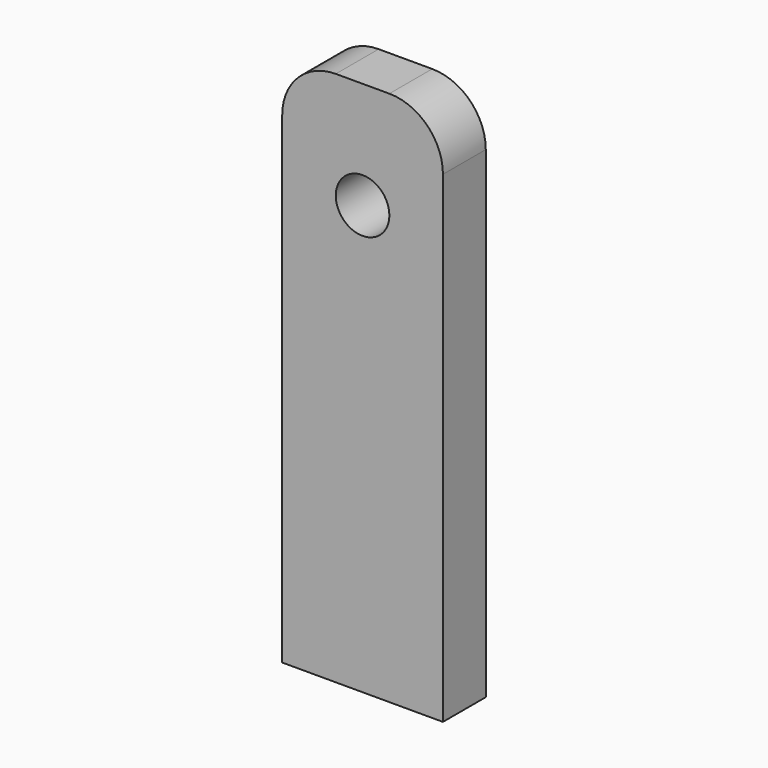
from build123d import *

# Parameters (mm, degrees)
F0_W     = 76.2
F0_H     = 254
F0_R     = 12.7
F1_DEPTH = 25.4
F2_R     = 25.4


with BuildPart() as f1:
    # F0 (on Front) → F1 (new body)
    with BuildSketch(Plane.XZ):
        with Locations((38.1, 127)):
            Rectangle(F0_W, F0_H)
        with Locations((38.1, 203.2)):
            Circle(F0_R, mode=Mode.SUBTRACT)
    extrude(amount=F1_DEPTH)

    # F2
    f2_edges = [f1.edges().sort_by_distance(p)[0] for p in [
        (0, -12.7, 254),
        (76.2, -12.7, 254),
    ]]
    fillet(f2_edges, radius=F2_R)


solid = f1.part
